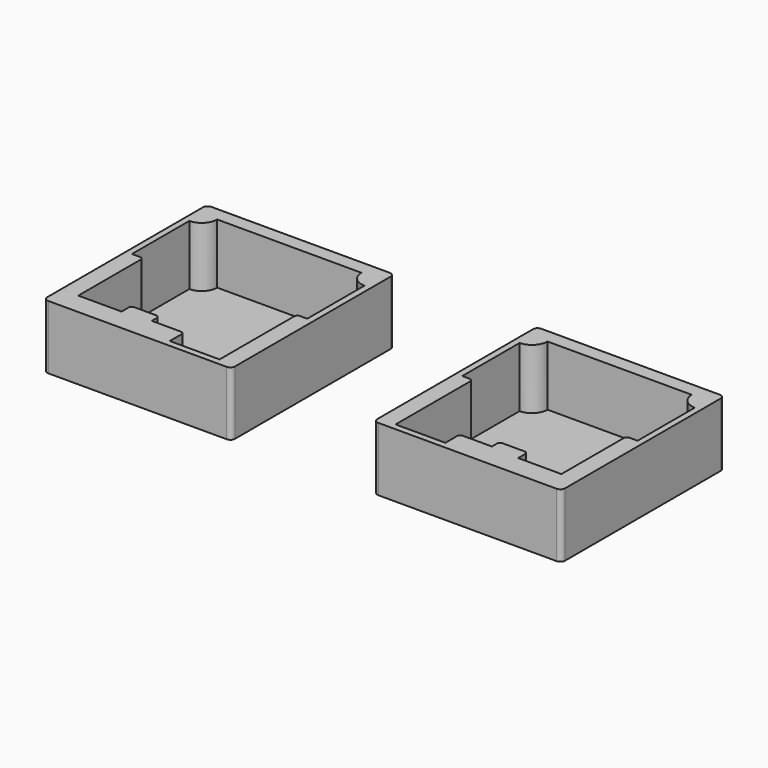
from build123d import *

# Parameters (mm, degrees)
PAD_DEPTH       = 41.1
POCKET_DEPTH    = 38.7
PAD001_DEPTH    = 41.1
POCKET001_DEPTH = 38.7


with BuildPart() as right_part:
    # Binder → Pad (new body)
    with BuildSketch(Plane(origin=(56.4, 61.6, 0), x_dir=(0, 1, 0), z_dir=(0, 0, 1))):
        with BuildLine():
            Line((62.7, 60.5), (-62.7, 60.5))
            ThreePointArc((-62.7, 60.5), (-64.82132, 59.62132), (-65.7, 57.5))
            Line((-65.7, 57.5), (-65.7, -57.5))
            ThreePointArc((-65.7, -57.5), (-64.82132, -59.62132), (-62.7, -60.5))
            Line((-62.7, -60.5), (62.7, -60.5))
            ThreePointArc((62.7, -60.5), (64.82132, -59.62132), (65.7, -57.5))
            Line((65.7, -57.5), (65.7, 57.5))
            ThreePointArc((65.7, 57.5), (64.82132, 59.62132), (62.7, 60.5))
        make_face()
    extrude(amount=-PAD_DEPTH)

    # Binder001 → Pocket (cut)
    with BuildSketch(Plane(origin=(56.5, 59.2, 0), x_dir=(0, 1, 0), z_dir=(0, 0, 1))):
        with BuildLine():
            Line((49.2, 56.5), (3, 56.5))
            Line((3, 56.5), (3, 51.75))
            ThreePointArc((3, 51.75), (2.414214, 50.335786), (1, 49.75))
            Line((1, 49.75), (-59.2, 49.75))
            Line((-59.2, 49.75), (-59.2, 17.65))
            Line((-59.2, 17.65), (-49.7, 17.65))
            ThreePointArc((-49.7, 17.65), (-48.285786, 17.064214), (-47.7, 15.65))
            Line((-47.7, 15.65), (-47.7, -3.15))
            Line((-47.7, -3.15), (-43.6, -3.15))
            ThreePointArc((-43.6, -3.15), (-42.185786, -3.735786), (-41.6, -5.15))
            Line((-41.6, -5.15), (-41.6, -19.35))
            ThreePointArc((-41.6, -19.35), (-42.185786, -20.764214), (-43.6, -21.35))
            Line((-43.6, -21.35), (-49.3, -21.35))
            Line((-49.3, -21.35), (-49.3, -49.25))
            Line((-49.3, -49.25), (1, -49.25))
            ThreePointArc((1, -49.25), (2.414214, -49.835786), (3, -51.25))
            Line((3, -51.25), (3, -56.5))
            Line((3, -56.5), (49.2, -56.5))
            ThreePointArc((49.2, -56.5), (52.128932, -49.428932), (59.2, -46.5))
            Line((59.2, -46.5), (59.2, 46.5))
            ThreePointArc((59.2, 46.5), (52.128932, 49.428932), (49.2, 56.5))
        make_face()
    extrude(amount=-POCKET_DEPTH, mode=Mode.SUBTRACT)


with BuildPart() as left_part:
    # Binder002 → Pad001 (new body)
    with BuildSketch(Plane(origin=(-156.4, 61.6, 0), x_dir=(0, 1, 0), z_dir=(0, 0, 1))):
        with BuildLine():
            Line((62.7, -60.5), (-62.7, -60.5))
            ThreePointArc((-62.7, -60.5), (-64.82132, -59.62132), (-65.7, -57.5))
            Line((-65.7, -57.5), (-65.7, 57.5))
            ThreePointArc((-65.7, 57.5), (-64.82132, 59.62132), (-62.7, 60.5))
            Line((-62.7, 60.5), (62.7, 60.5))
            ThreePointArc((62.7, 60.5), (64.82132, 59.62132), (65.7, 57.5))
            Line((65.7, 57.5), (65.7, -57.5))
            ThreePointArc((65.7, -57.5), (64.82132, -59.62132), (62.7, -60.5))
        make_face()
    extrude(amount=-PAD001_DEPTH)

    # Binder003 → Pocket001 (cut)
    with BuildSketch(Plane(origin=(-156.5, 59.2, 0), x_dir=(0, 1, 0), z_dir=(0, 0, 1))):
        with BuildLine():
            Line((49.2, -56.5), (3, -56.5))
            Line((3, -56.5), (3, -51.75))
            ThreePointArc((3, -51.75), (2.414214, -50.335786), (1, -49.75))
            Line((1, -49.75), (-59.2, -49.75))
            Line((-59.2, -49.75), (-59.2, -17.65))
            Line((-59.2, -17.65), (-49.7, -17.65))
            ThreePointArc((-49.7, -17.65), (-48.285786, -17.064214), (-47.7, -15.65))
            Line((-47.7, -15.65), (-47.7, 3.15))
            Line((-47.7, 3.15), (-43.6, 3.15))
            ThreePointArc((-43.6, 3.15), (-42.185786, 3.735786), (-41.6, 5.15))
            Line((-41.6, 5.15), (-41.6, 19.35))
            ThreePointArc((-41.6, 19.35), (-42.185786, 20.764214), (-43.6, 21.35))
            Line((-43.6, 21.35), (-49.3, 21.35))
            Line((-49.3, 21.35), (-49.3, 49.25))
            Line((-49.3, 49.25), (1, 49.25))
            ThreePointArc((1, 49.25), (2.414214, 49.835786), (3, 51.25))
            Line((3, 51.25), (3, 56.5))
            Line((3, 56.5), (49.2, 56.5))
            ThreePointArc((49.2, 56.5), (52.128932, 49.428932), (59.2, 46.5))
            Line((59.2, 46.5), (59.2, -46.5))
            ThreePointArc((59.2, -46.5), (52.128932, -49.428932), (49.2, -56.5))
        make_face()
    extrude(amount=-POCKET001_DEPTH, mode=Mode.SUBTRACT)


solid = Compound([right_part.part, left_part.part])
